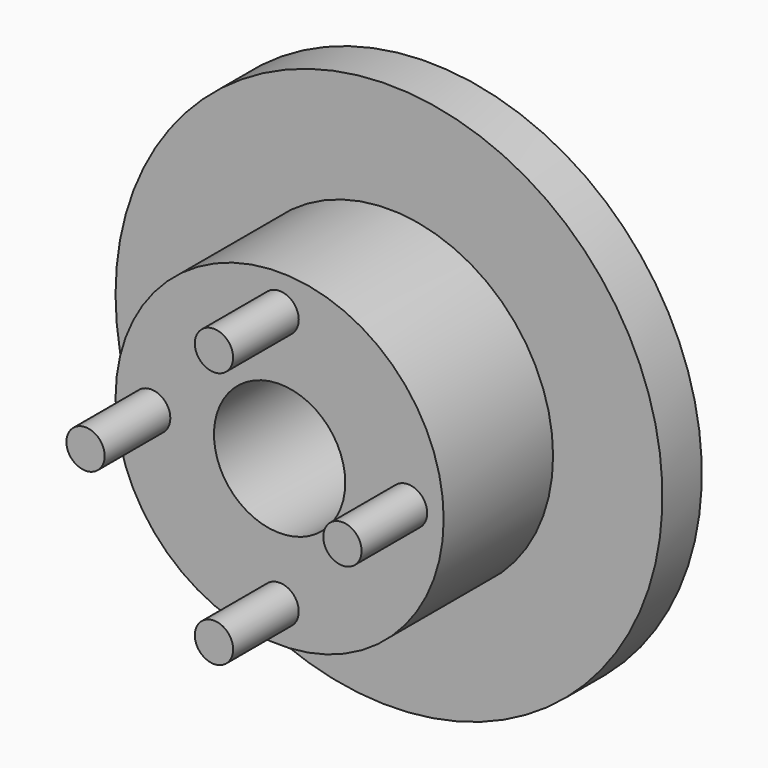
from build123d import *

# Parameters (mm, degrees)
F0_R     = 15
F0_R_2   = 6
F1_DEPTH = 12.5
F3_R     = 25
F3_R_2   = 6
F4_DEPTH = 4.5
F5_R     = 1.75
F6_DEPTH = 7.5


with BuildPart() as f1:
    # F0 (on Front) → F1 (new body)
    with BuildSketch(Plane.XZ):
        Circle(F0_R)
        Circle(F0_R_2, mode=Mode.SUBTRACT)
    extrude(amount=F1_DEPTH)

    # F3 (on face) → F4 (join)
    with BuildSketch(Plane(origin=(0, 0, 0), x_dir=(-1, 0, 0), z_dir=(0, 1, 0))):
        Circle(F3_R)
        Circle(F3_R_2, mode=Mode.SUBTRACT)
    extrude(amount=F4_DEPTH)

    # F5 (on face) → F6 (join)
    with BuildSketch(Plane.XZ.offset(12.5)):
        with Locations((0, 11.741299)):
            Circle(F5_R)
        with Locations((-11.741299, 0)):
            Circle(F5_R)
        with Locations((11.741299, 0)):
            Circle(F5_R)
        with Locations((0, -11.741299)):
            Circle(F5_R)
    extrude(amount=F6_DEPTH)


solid = f1.part
